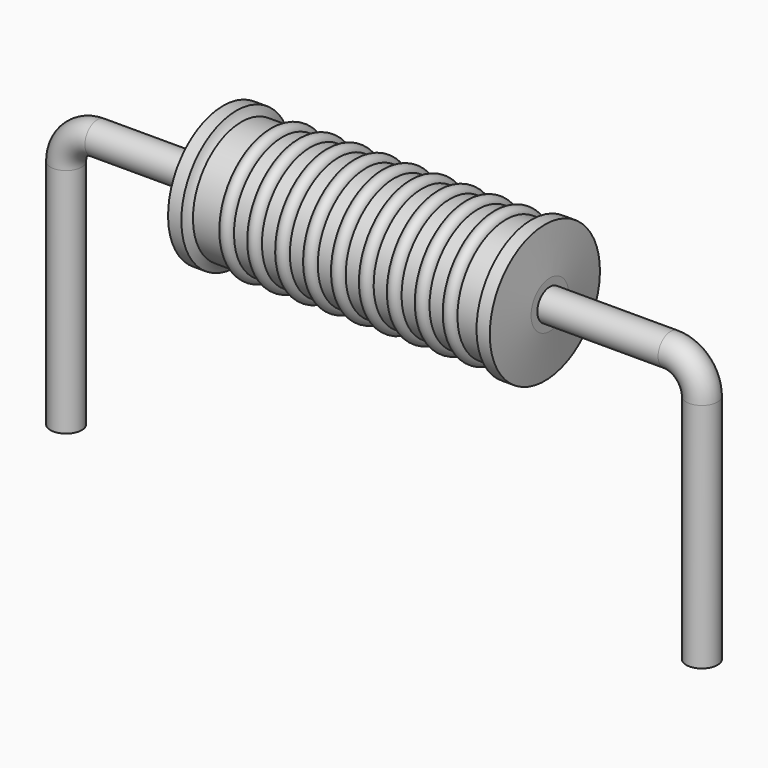
from build123d import *

# Parameters (mm, degrees)
SKETCH_R = 0.25


with BuildPart() as revolution:
    # Sketch002 → Revolution (revolve)
    with BuildSketch(Plane.XZ):
        with BuildLine():
            Line((2.5095, 2.3), (2.7215, 2.3))
            ThreePointArc((2.7215, 2.3), (2.754132, 2.229479), (2.801, 2.1675))
            Line((2.801, 2.1675), (7.359, 2.1675))
            ThreePointArc((7.359, 2.1675), (7.405868, 2.229479), (7.4385, 2.3))
            Line((7.4385, 2.3), (7.6505, 2.3))
            ThreePointArc((7.73, 1.575), (7.690562, 1.937534), (7.6505, 2.3))
            Line((7.73, 1.2), (7.73, 1.575))
            Line((2.43, 1.2), (7.73, 1.2))
            Line((2.43, 1.2), (2.43, 1.575))
            ThreePointArc((2.5095, 2.3), (2.469438, 1.937534), (2.43, 1.575))
        make_face()
    revolve(axis=Axis((2.43, 0, 1.2), (1, 0, 0)))


with BuildPart() as sweep_body:
    # Sweep: sweep along a path in Sketch001
    with BuildLine(Plane.XZ) as sweep_path:
        Line((0, -3), (0, 0.7))
        ThreePointArc((0, 0.7), (0.146445, 1.053551), (0.499994, 1.2))
        Line((0.499994, 1.2), (9.66, 1.2))
        ThreePointArc((9.66, 1.2), (10.013553, 1.053553), (10.16, 0.7))
        Line((10.16, 0.7), (10.16, -3))
    # Sketch → Sweep (sweep)
    with BuildSketch(Plane.XY.offset(-2)):
        Circle(SKETCH_R)
    sweep(path=sweep_path.line)


with BuildPart() as revolution001:
    # Sketch003 → Revolution001 (revolve)
    with BuildSketch(Plane.XZ):
        with BuildLine():
            ThreePointArc((3.459316, 2.1463), (3.347737, 2.257879), (3.236158, 2.1463))
            Line((3.013, 2.1463), (3.236158, 2.1463))
            Line((3.013, 2.1463), (3.013, 1.9263))
            Line((3.013, 1.9263), (7.253, 1.9263))
            Line((7.253, 1.9263), (7.253, 2.1463))
            Line((7.029842, 2.1463), (7.253, 2.1463))
            ThreePointArc((7.029842, 2.1463), (6.918263, 2.257879), (6.806684, 2.1463))
            Line((6.583526, 2.1463), (6.806684, 2.1463))
            ThreePointArc((6.583526, 2.1463), (6.471947, 2.257879), (6.360368, 2.1463))
            Line((6.137211, 2.1463), (6.360368, 2.1463))
            ThreePointArc((6.137211, 2.1463), (6.025632, 2.257879), (5.914053, 2.1463))
            Line((5.690895, 2.1463), (5.914053, 2.1463))
            ThreePointArc((5.690895, 2.1463), (5.579316, 2.257879), (5.467737, 2.1463))
            Line((5.244579, 2.1463), (5.467737, 2.1463))
            ThreePointArc((5.244579, 2.1463), (5.133, 2.257879), (5.021421, 2.1463))
            Line((4.798263, 2.1463), (5.021421, 2.1463))
            ThreePointArc((4.798263, 2.1463), (4.686684, 2.257879), (4.575105, 2.1463))
            Line((4.351947, 2.1463), (4.575105, 2.1463))
            ThreePointArc((4.351947, 2.1463), (4.240368, 2.257879), (4.128789, 2.1463))
            Line((3.905632, 2.1463), (4.128789, 2.1463))
            ThreePointArc((3.905632, 2.1463), (3.794053, 2.257879), (3.682474, 2.1463))
            Line((3.459316, 2.1463), (3.682474, 2.1463))
        make_face()
    revolve(axis=Axis((2.5625, 0, 1.2), (1, 0, 0)))


solid = Compound([revolution.part, sweep_body.part, revolution001.part])
